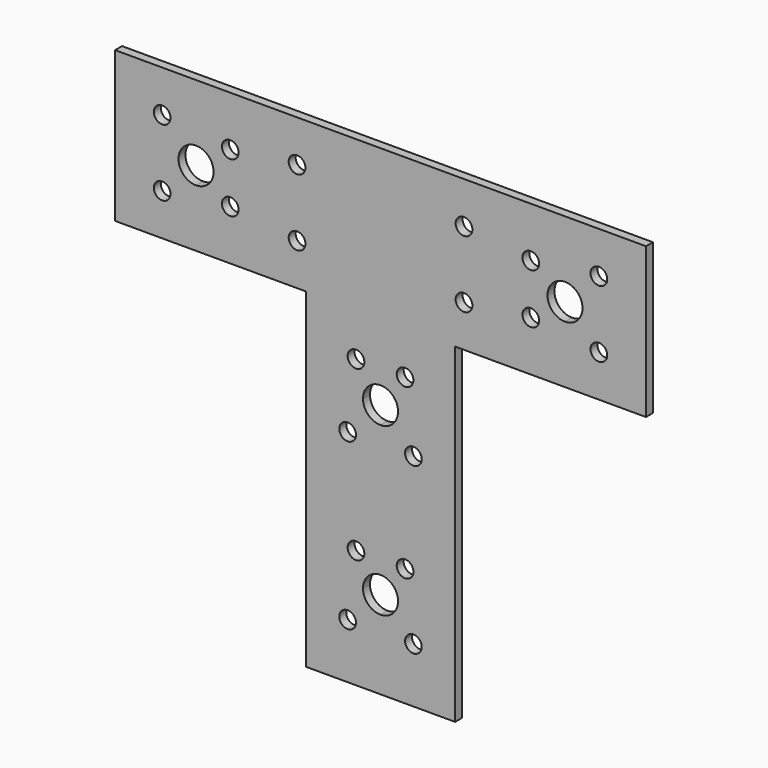
from build123d import *

# Parameters (mm, degrees)
F1_DEPTH = 2.61
F2_R     = 2.5
F3_DEPTH = 2.611


with BuildPart() as f1:
    # F0 (on Front) → F1 (new body)
    with BuildSketch(Plane.XZ):
        Polygon((79.5, -22.52), (79.5, 22.52), (-79.5, 22.52), (-79.5, -22.52), (-22.35, -22.52), (-22.35, -121.48), (22.35, -121.48), (22.35, -22.52), align=None)
        with BuildLine():
            ThreePointArc((0, -89.98), (3.712311, -91.517689), (5.25, -95.23))
            ThreePointArc((5.25, -95.23), (3.712311, -98.942311), (0, -100.48))
            ThreePointArc((0, -100.48), (-3.712311, -98.942311), (-5.25, -95.23))
            ThreePointArc((-5.25, -95.23), (-3.712311, -91.517689), (0, -89.98))
        make_face(mode=Mode.SUBTRACT)
        with BuildLine():
            ThreePointArc((-55.25, 5.25), (-51.537689, 3.712311), (-50, 0))
            ThreePointArc((-50, 0), (-51.537689, -3.712311), (-55.25, -5.25))
            ThreePointArc((-55.25, -5.25), (-60.5, 0), (-55.25, 5.25))
        make_face(mode=Mode.SUBTRACT)
        with BuildLine():
            ThreePointArc((-5.25, -45.23), (-3.712311, -41.517689), (0, -39.98))
            ThreePointArc((0, -39.98), (3.712311, -41.517689), (5.25, -45.23))
            ThreePointArc((5.25, -45.23), (3.712311, -48.942311), (0, -50.48))
            ThreePointArc((0, -50.48), (-3.712311, -48.942311), (-5.25, -45.23))
        make_face(mode=Mode.SUBTRACT)
        with BuildLine():
            ThreePointArc((55.25, 5.25), (58.962311, 3.712311), (60.5, 0))
            ThreePointArc((60.5, 0), (58.962311, -3.712311), (55.25, -5.25))
            ThreePointArc((55.25, -5.25), (50, 0), (55.25, 5.25))
        make_face(mode=Mode.SUBTRACT)
    extrude(amount=F1_DEPTH)

    # F2 (on face) → F3 (cut, through all)
    with BuildSketch(Plane.XZ.offset(2.61)):
        with Locations((65.4, 10.02)):
            Circle(F2_R)
        with Locations((65.4, -10.02)):
            Circle(F2_R)
        with Locations((45, 7.52)):
            Circle(F2_R)
        with Locations((45, -7.52)):
            Circle(F2_R)
        with Locations((25, 10.02)):
            Circle(F2_R)
        with Locations((25, -10.02)):
            Circle(F2_R)
        with Locations((-25, 10.02)):
            Circle(F2_R)
        with Locations((-25, -10.02)):
            Circle(F2_R)
        with Locations((-45, 7.52)):
            Circle(F2_R)
        with Locations((-45, -7.52)):
            Circle(F2_R)
        with Locations((-65.4, -10.02)):
            Circle(F2_R)
        with Locations((-65.4, 10.02)):
            Circle(F2_R)
        with Locations((9.85, -55.48)):
            Circle(F2_R)
        with Locations((-9.85, -55.48)):
            Circle(F2_R)
        with Locations((-9.85, -104.98)):
            Circle(F2_R)
        with Locations((9.85, -104.98)):
            Circle(F2_R)
        with Locations((-7.35, -35.48)):
            Circle(F2_R)
        with Locations((7.35, -35.48)):
            Circle(F2_R)
        with Locations((7.35, -85.98)):
            Circle(F2_R)
        with Locations((-7.35, -85.98)):
            Circle(F2_R)
    extrude(amount=-F3_DEPTH, mode=Mode.SUBTRACT)


solid = f1.part
